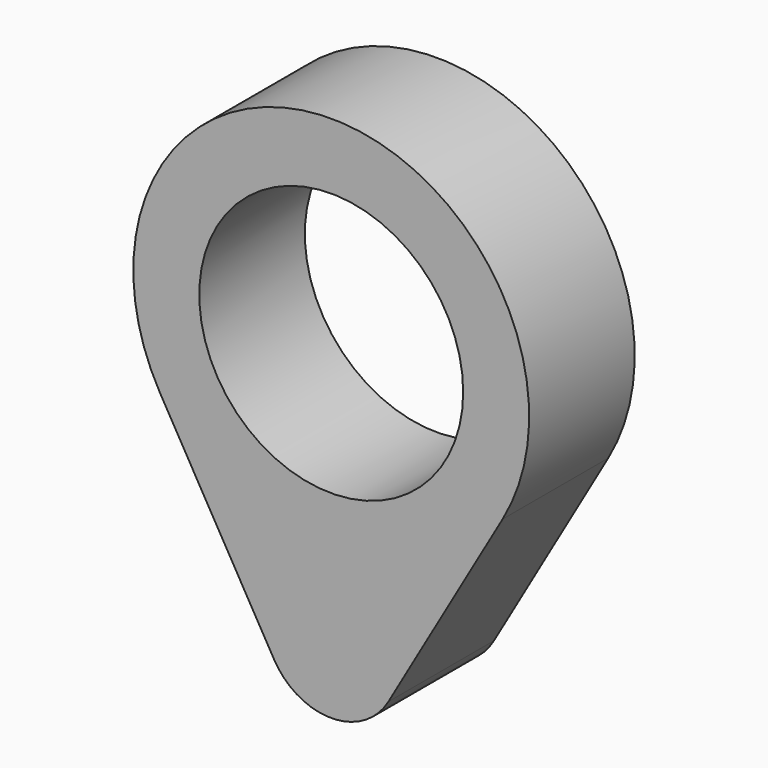
from build123d import *

# Parameters (mm, degrees)
F1_R     = 12.7
F2_DEPTH = 12.7


with BuildPart() as f2:
    # F1 (on offset) → F2 (new body)
    with BuildSketch(Plane.XZ.offset(63.5)):
        with BuildLine():
            Line((5.499261, -28.575), (16.497784, -9.525))
            ThreePointArc((16.497784, -9.525), (0, 19.05), (-16.497784, -9.525))
            Line((-16.497784, -9.525), (-5.499261, -28.575))
            ThreePointArc((-5.499261, -28.575), (0, -31.75), (5.499261, -28.575))
        make_face()
        Circle(F1_R, mode=Mode.SUBTRACT)
    extrude(amount=-F2_DEPTH)


solid = f2.part
